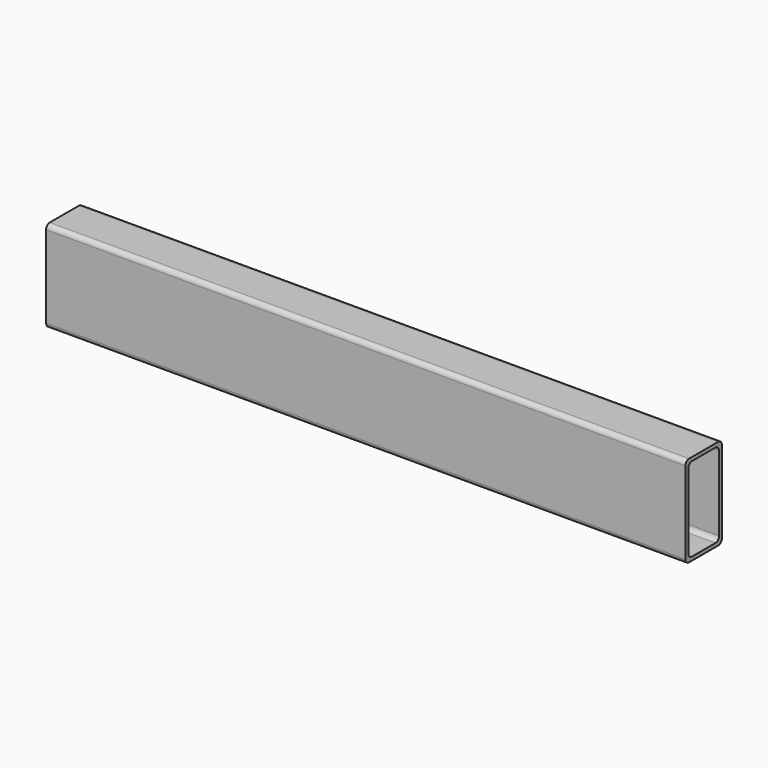
from build123d import *

# Parameters (mm, degrees)
F0_W     = 700
F0_H     = 100
F1_DEPTH = 50
F2_T     = -4
F3_R     = 5
F5_D     = 22
F5_DEPTH = 4
F5_TIP   = 6.6094668093


with BuildPart() as f1:
    # F0 (on Front) → F1 (new body)
    with BuildSketch(Plane.XZ):
        Rectangle(F0_W, F0_H)
    extrude(amount=F1_DEPTH)

    # F2
    f2_openings = [f1.faces().sort_by_distance(p)[0] for p in [
        (-350, -25, 0),
        (350, -25, 0),
    ]]
    offset(amount=F2_T, openings=f2_openings)

    # F3
    f3_edges = [f1.edges().sort_by_distance(p)[0] for p in [
        (0, -4, 46),
        (0, -46, 46),
        (0, 0, 50),
        (0, -50, 50),
        (0, -4, -46),
        (0, -50, -50),
        (0, -46, -46),
        (0, 0, -50),
    ]]
    fillet(f3_edges, radius=F3_R)

    # F5
    with Locations(Plane(origin=(0, 0, -50), x_dir=(1, 0, 0), z_dir=(0, 0, -1))):
        with Locations((0, 25)):
            Hole(F5_D / 2, depth=F5_DEPTH)
            with Locations((0, 0, -(F5_DEPTH + F5_TIP / 2))):  # 118° drill point
                Cone(0, F5_D / 2, F5_TIP, mode=Mode.SUBTRACT)


solid = f1.part
